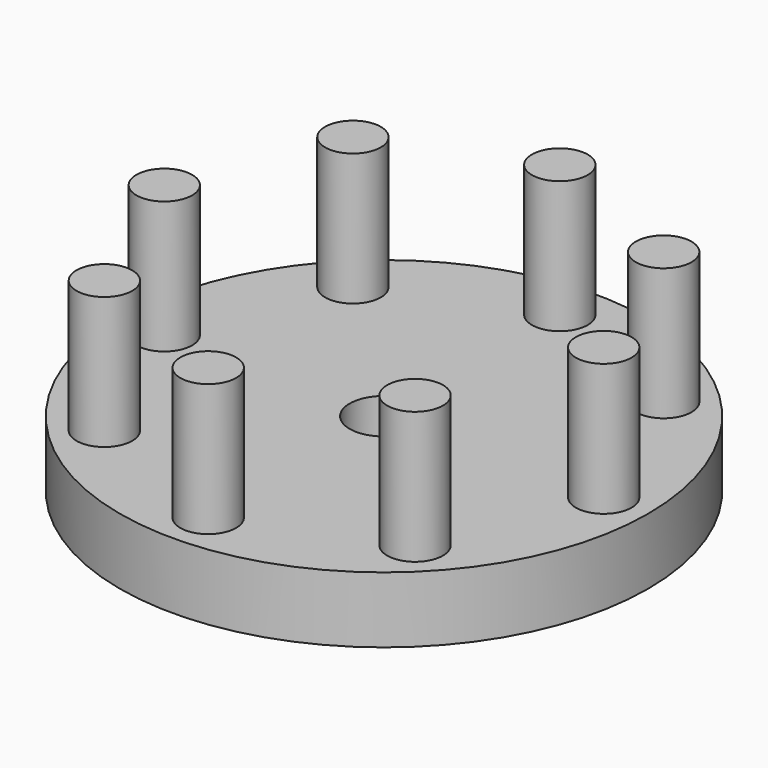
from build123d import *

# Parameters (mm, degrees)
F0_R     = 25.4
F0_R_2   = 3.302
F1_DEPTH = 6.35
F2_R     = 2.680507
F3_DEPTH = 12.7


with BuildPart() as f1:
    # F0 (on Top) → F1 (new body)
    with BuildSketch(Plane.XY):
        Circle(F0_R)
        Circle(F0_R_2, mode=Mode.SUBTRACT)
    extrude(amount=F1_DEPTH)

    # F2 (on face) → F3 (join)
    with BuildSketch(Plane.XY.offset(6.35)):
        with Locations((0, 21.12977)):
            Circle(F2_R)
        with Locations((-14.941004, 14.941004)):
            Circle(F2_R)
        with Locations((-21.12977, 0)):
            Circle(F2_R)
        with Locations((-14.941004, -14.941004)):
            Circle(F2_R)
        with Locations((0, -21.12977)):
            Circle(F2_R)
        with Locations((21.12977, 0)):
            Circle(F2_R)
        with Locations((14.941004, 14.941004)):
            Circle(F2_R)
        with Locations((14.941004, -14.941004)):
            Circle(F2_R)
    extrude(amount=F3_DEPTH)


solid = f1.part
